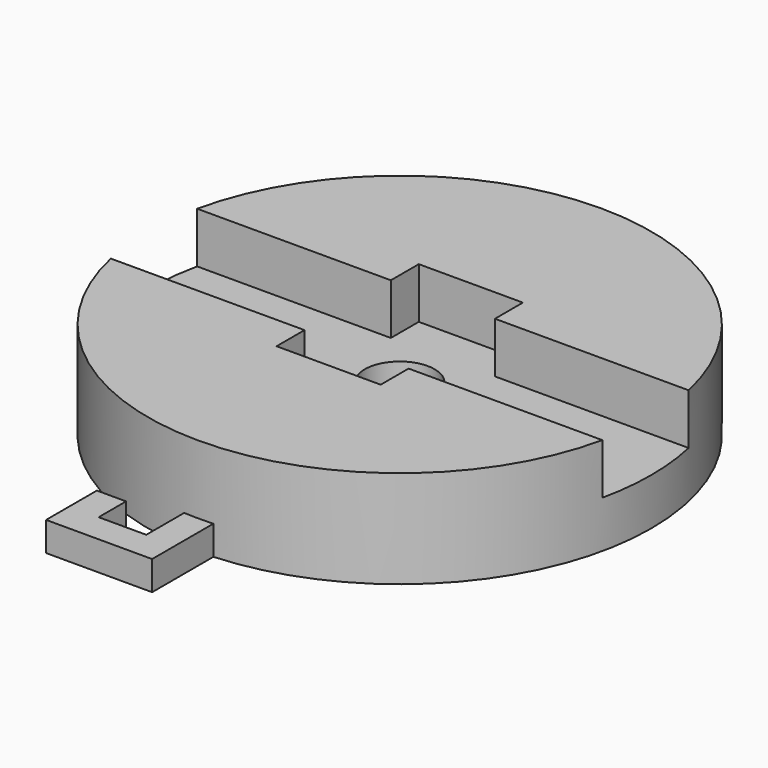
from build123d import *

# Parameters (mm, degrees)
F0_R     = 19.815
F1_DEPTH = 7.7
F2_W     = 8.2
F2_H     = 14
F3_DEPTH = 4
F4_W     = 40.63
F4_H     = 8.5
F5_DEPTH = 4
F6_W     = 2.3
F6_H     = 2.3
F6_W_2   = 3.75
F6_H_2   = 2.7
F7_DEPTH = 2.3
F8_R     = 2.75
F9_DEPTH = 25


with BuildPart() as f1:
    # F0 (on Top) → F1 (new body)
    with BuildSketch(Plane.XY):
        Circle(F0_R)
    extrude(amount=F1_DEPTH)

    # F2 (on face) → F3 (cut)
    with BuildSketch(Plane.XY.offset(7.7)):
        Rectangle(F2_W, F2_H)
    extrude(amount=-F3_DEPTH, mode=Mode.SUBTRACT)

    # F4 (on face) → F5 (cut)
    with BuildSketch(Plane.XY.offset(7.7)):
        Rectangle(F4_W, F4_H)
    extrude(amount=-F5_DEPTH, mode=Mode.SUBTRACT)

    # F6 (on face) → F7 (join)
    with BuildSketch(Plane(origin=(0, 0, 0), x_dir=(1, 0, 0), z_dir=(0, 0, -1))):
        with Locations((0, 24.665)):
            Rectangle(F6_W, F6_H)
        with Locations((-3.025, 24.665)):
            Rectangle(F6_W_2, F6_H)
        Polygon((1.15, 19.815), (1.15, 23.515), (-1.15, 23.515), (-1.15, 19.815), (-1.15, 19.516828), (1.172135, 19.553192), align=None)
        with Locations((-6.05, 24.665)):
            Rectangle(F6_W, F6_H)
        with Locations((-6.05, 22.165)):
            Rectangle(F6_W, F6_H_2)
    extrude(amount=-F7_DEPTH)

    # F8 (on face) → F9 (cut)
    with BuildSketch(Plane(origin=(0, 0, 0), x_dir=(1, 0, 0), z_dir=(0, 0, -1))):
        Circle(F8_R)
    extrude(amount=-F9_DEPTH, mode=Mode.SUBTRACT)


solid = f1.part
